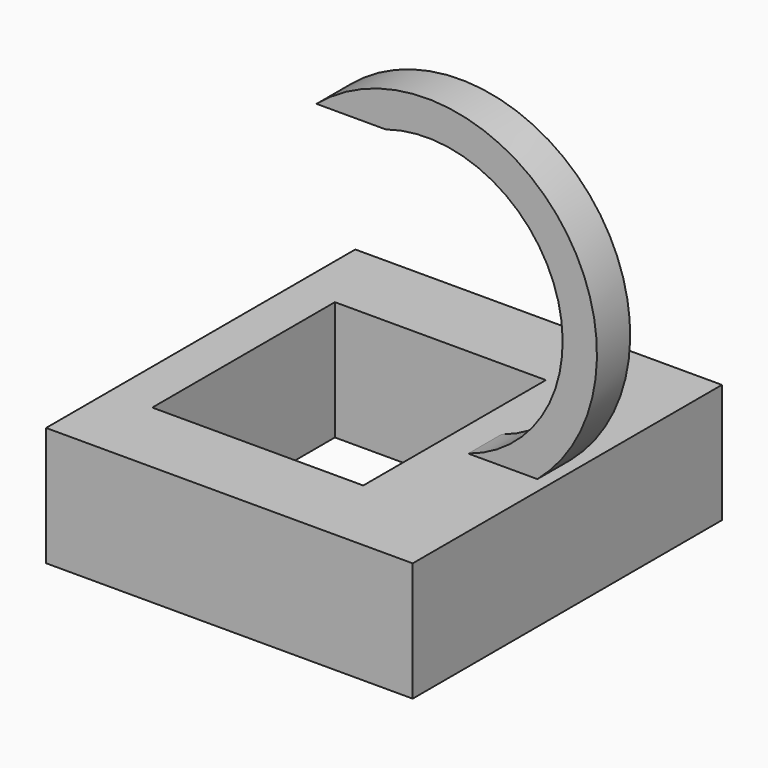
from build123d import *

# Parameters (mm, degrees)
F0_W     = 14.748384
F0_H     = 8.849032
F0_W_2   = 7.005484
F0_H_2   = 3.687096
F3_W     = 78.166454
F3_H     = 82.406614
F3_W_2   = 44.982581
F3_H_2   = 48.669678
F4_DEPTH = 25.4
F5_DEPTH = 2.54


with BuildPart() as f2:
    # F2: sweep along a path in F1
    with BuildLine(Plane.XZ) as f2_path:
        ThreePointArc((0, 27.558451), (-16.169621, 43.728072), (-32.339242, 27.558451))
    # F0 (on Top) → F2 (sweep)
    with BuildSketch(Plane.XY):
        Rectangle(F0_W, F0_H)
        Rectangle(F0_W_2, F0_H_2, mode=Mode.SUBTRACT)
    sweep(path=f2_path.line)

    # F3 (on Top) → F4 (join)
    with BuildSketch(Plane.XY):
        with Locations((-28.943711, 0.092177)):
            Rectangle(F3_W, F3_H)
        with Locations((-36.317903, 0)):
            Rectangle(F3_W_2, F3_H_2, mode=Mode.SUBTRACT)
    extrude(amount=-F4_DEPTH)

    # F3 (on Top) → F5 (cut)
    with BuildSketch(Plane.XY):
        with Locations((-36.317903, 0)):
            Rectangle(F3_W_2, F3_H_2)
    extrude(amount=-F5_DEPTH, mode=Mode.SUBTRACT)


solid = f2.part
